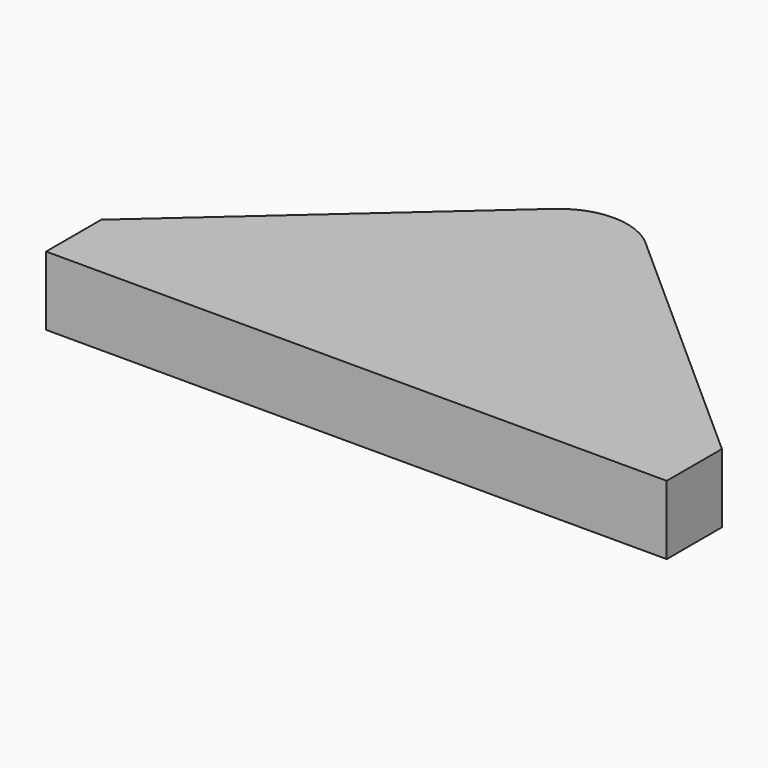
from build123d import *

# Parameters (mm, degrees)
F1_DEPTH = 20
F2_R     = 11.5
F3_DEPTH = 10


with BuildPart() as f1:
    # F0 (on Top) → F1 (new body)
    with BuildSketch(Plane.XY):
        with BuildLine():
            Line((-35.837669, 47.693254), (-112.550392, -20.495833))
            Line((-112.550392, -20.495833), (-112.550392, -40.495833))
            Line((-112.550392, -40.495833), (67.449608, -40.495833))
            Line((67.449608, -40.495833), (67.449608, -20.495833))
            Line((67.449608, -20.495833), (-9.263115, 47.693254))
            ThreePointArc((-9.263115, 47.693254), (-22.550392, 52.745068), (-35.837669, 47.693254))
        make_face()
    extrude(amount=F1_DEPTH)

    # F2 (on face) → F3 (cut)
    with BuildSketch(Plane(origin=(0, 0, 0), x_dir=(1, 0, 0), z_dir=(0, 0, -1))):
        with Locations((-22.550392, -26.245068)):
            Circle(F2_R)
    extrude(amount=-F3_DEPTH, mode=Mode.SUBTRACT)


solid = f1.part
